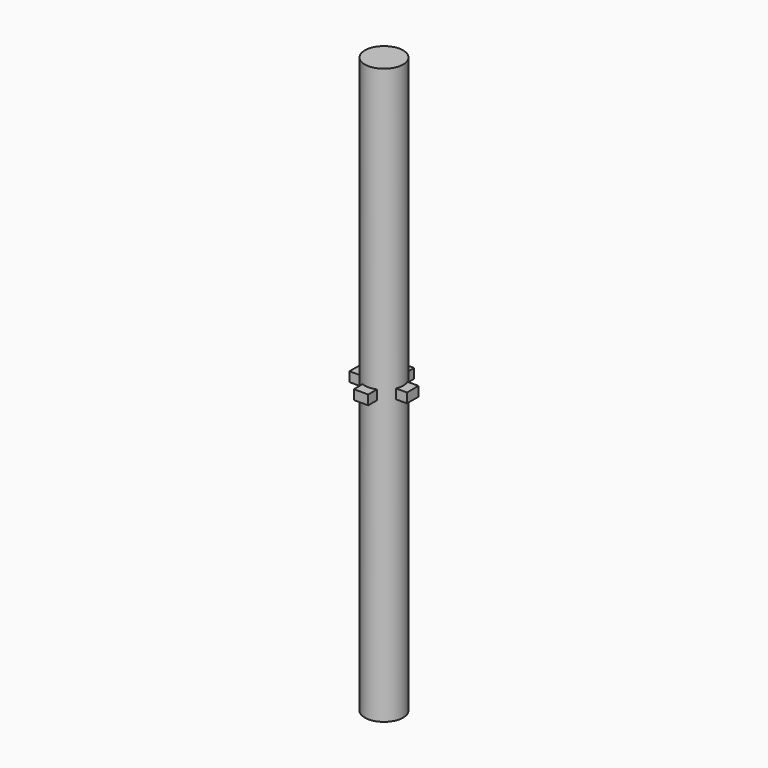
from build123d import *

# Parameters (mm, degrees)
F0_R     = 2.54
F1_DEPTH = 76.2
F4_DEPTH = 0.635


with BuildPart() as f1:
    # F0 (on Top) → F1 (new body)
    with BuildSketch(Plane.XY):
        Circle(F0_R)
    extrude(amount=F1_DEPTH)

    # F3 (on offset) → F4 (join, symmetric)
    with BuildSketch(Plane.XY.offset(38.1)):
        Polygon((0.9525, 0.9525), (0.9525, 3.81), (-0.9525, 3.81), (-0.9525, 0.9525), (-3.81, 0.9525), (-3.81, -0.9525), (-0.9525, -0.9525), (-0.9525, -3.81), (0.9525, -3.81), (0.9525, -0.9525), (3.81, -0.9525), (3.81, 0.9525), align=None)
    extrude(amount=F4_DEPTH, both=True)


solid = f1.part
